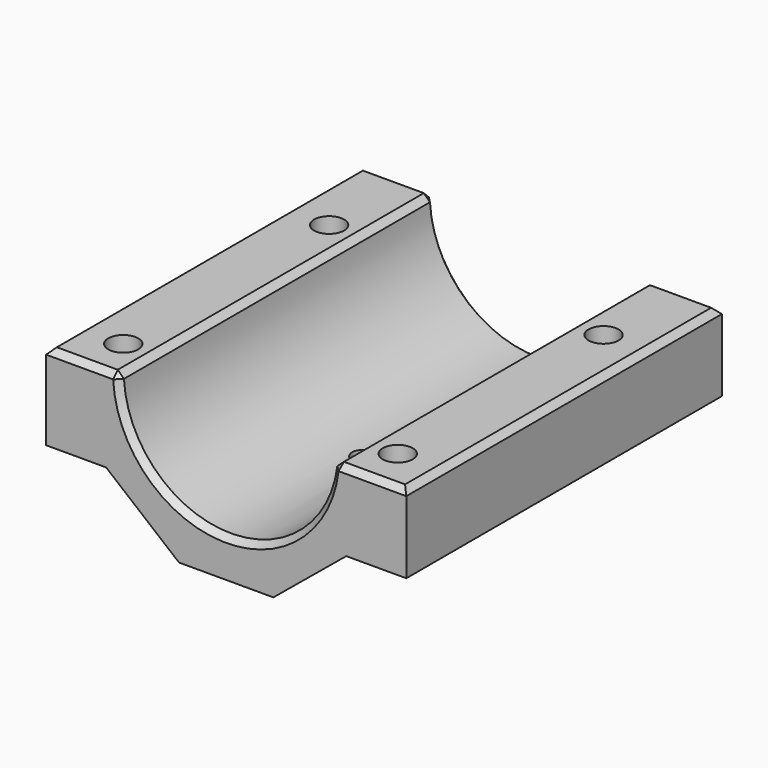
from build123d import *

# Parameters (mm, degrees)
SKETCH009_R                       = 3.25
EXTRUDE003_DEPTH                  = 3
SKETCH008_R                       = 3.25
EXTRUDE002_DEPTH                  = 10
SKETCH007_R                       = 1.75
SKETCH007_R_2                     = 1.3
EXTRUDE001_DEPTH                  = 25
EXTRUDE_DEPTH                     = 46
EXTRUDE_ONTO_SKETCH003_ROLL_ANGLE = 90
CHAMFER_SIZE                      = 0.7


with BuildPart() as extrude003:
    # Sketch009 → Extrude003 (new body)
    with BuildSketch(Plane.XY):
        with Locations((0, 20)):
            Circle(SKETCH009_R)
    extrude(amount=EXTRUDE003_DEPTH)


with BuildPart() as extrude002:
    # Sketch008 → Extrude002 (new body)
    with BuildSketch(Plane.XY):
        with Locations((-16, 5)):
            Circle(SKETCH008_R)
        with Locations((16, 5)):
            Circle(SKETCH008_R)
        with Locations((-16, 35)):
            Circle(SKETCH008_R)
        with Locations((16, 35)):
            Circle(SKETCH008_R)
    extrude(amount=EXTRUDE002_DEPTH)


with BuildPart() as extrude001:
    # Sketch007 → Extrude001 (new body)
    with BuildSketch(Plane.XY):
        with Locations((-16, 5)):
            Circle(SKETCH007_R)
        with Locations((16, 5)):
            Circle(SKETCH007_R)
        with Locations((-16, 35)):
            Circle(SKETCH007_R)
        with Locations((16, 35)):
            Circle(SKETCH007_R)
        with Locations((0, 20)):
            Circle(SKETCH007_R_2)
    extrude(amount=EXTRUDE001_DEPTH)


with BuildPart() as chamfer_body:
    # Sketch003 as drawn → Extrude (new)
    with BuildSketch(Plane.XY):
        with BuildLine():
            Line((21, 16.128044), (21, 7))
            Line((14, 7), (21, 7))
            Line((5.5, 0), (14, 7))
            Line((-5.5, 0), (5.5, 0))
            Line((-5.5, 0), (-14, 7))
            Line((-14, 7), (-21, 7))
            Line((-21, 7), (-21, 17))
            Line((-21, 17), (-12.5, 17))
            ThreePointArc((-12.5, 17), (-0.436244, 4.507615), (12.469551, 16.128044))
            Line((12.469551, 16.128044), (21, 16.128044))
        make_face()
    extrude(amount=-EXTRUDE_DEPTH)


with BuildPart() as chamfer_body_1:
    # Extrude onto Sketch003 roll: moved
    add(chamfer_body.part.rotate(Axis((0, 0, 0), (1, 0, 0)), EXTRUDE_ONTO_SKETCH003_ROLL_ANGLE))


with BuildPart() as chamfer_body_2:
    # Extrude onto Sketch003 placement: moved
    add(chamfer_body_1.part)

    # Cut: cut Extrude001
    add(extrude001.part, mode=Mode.SUBTRACT)

    # Cut001: cut Extrude002
    add(extrude002.part, mode=Mode.SUBTRACT)

    # Cut002: cut Extrude003
    add(extrude003.part, mode=Mode.SUBTRACT)

    # Chamfer
    chamfer_edges = [chamfer_body_2.edges().sort_by_distance(p)[0] for p in [
        (-16.75, 0, 17),
        (-0.436244, 0, 4.507615),
        (16.734775, 0, 16.128044),
        (-16.75, 46, 17),
        (-0.436244, 46, 4.507615),
        (16.734775, 46, 16.128044),
        (-21, 23, 17),
        (-12.5, 23, 17),
        (12.469551, 23, 16.128044),
        (21, 23, 16.128044),
    ]]
    chamfer(chamfer_edges, length=CHAMFER_SIZE)


solid = chamfer_body_2.part
